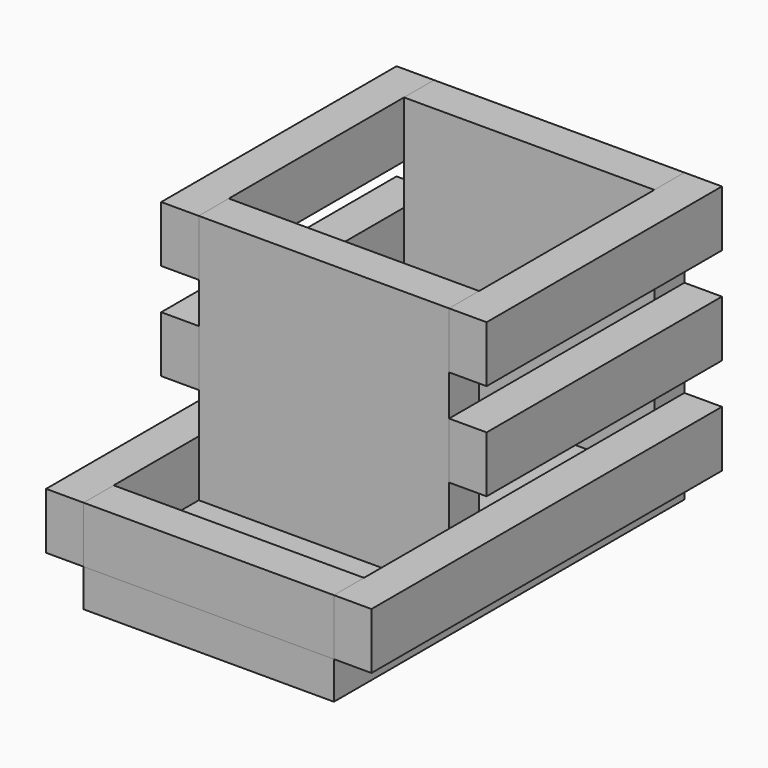
from build123d import *

# Parameters (mm, degrees)
F0_W      = 80
F0_H      = 140
F1_DEPTH  = 12
F2_W      = 80
F2_H      = 12
F3_DEPTH  = 80
F4_DEPTH  = 18
F5_W      = 128
F5_H      = 18
F5_W_2    = 12
F6_DEPTH  = 12
F7_W      = 82
F7_H      = 18
F7_W_2    = 12
F8_DEPTH  = 12
F10_W     = 12
F10_H     = 18
F10_W_2   = 82
F9_W      = 12
F9_H      = 18
F9_W_2    = 128
F11_DEPTH = 12


with BuildPart() as f1:
    # F0 (on Top) → F1 (new body)
    with BuildSketch(Plane.XY):
        with Locations((40, 70)):
            Rectangle(F0_W, F0_H)
    extrude(amount=F1_DEPTH)


with BuildPart() as f3:
    # F2 (on face) → F3 (new body)
    with BuildSketch(Plane.XY.offset(12)):
        with Locations((40, 134)):
            Rectangle(F2_W, F2_H)
        with Locations((40, 52)):
            Rectangle(F2_W, F2_H)
    extrude(amount=F3_DEPTH)


with BuildPart() as f4:
    # F2 (on face) → F4 (new body)
    with BuildSketch(Plane.XY.offset(12)):
        with Locations((40, 6)):
            Rectangle(F2_W, F2_H)
    extrude(amount=F4_DEPTH)


with BuildPart() as f6:
    # F5 (on face) → F6 (new body)
    with BuildSketch(Plane.YZ.offset(80)):
        with Locations((76, 21)):
            Rectangle(F5_W, F5_H)
        with Locations((6, 21)):
            Rectangle(F5_W_2, F5_H)
    extrude(amount=F6_DEPTH)


with BuildPart() as f8:
    # F7 (on face) → F8 (new body)
    with BuildSketch(Plane.YZ.offset(80)):
        with Locations((99, 83)):
            Rectangle(F7_W, F7_H)
        with Locations((52, 83)):
            Rectangle(F7_W_2, F7_H)
        with Locations((52, 52)):
            Rectangle(F7_W_2, F7_H)
        with Locations((99, 52)):
            Rectangle(F7_W, F7_H)
    extrude(amount=F8_DEPTH)


with BuildPart() as f11:
    # F10 (on face) + F9 (on face) → F11 (new body)
    with BuildSketch(Plane(origin=(0, 0, 0), x_dir=(0, -1, 0), z_dir=(-1, 0, 0))):
        with Locations((-52, 83)):
            Rectangle(F10_W, F10_H)
        with Locations((-99, 83)):
            Rectangle(F10_W_2, F10_H)
        with Locations((-52, 52)):
            Rectangle(F10_W, F10_H)
        with Locations((-99, 52)):
            Rectangle(F10_W_2, F10_H)
    with BuildSketch(Plane(origin=(0, 0, 0), x_dir=(0, -1, 0), z_dir=(-1, 0, 0))):
        with Locations((-6, 21)):
            Rectangle(F9_W, F9_H)
        with Locations((-76, 21)):
            Rectangle(F9_W_2, F9_H)
    extrude(amount=F11_DEPTH)


solid = Compound([f1.part, f3.part, f4.part, f6.part, f8.part, f11.part])
